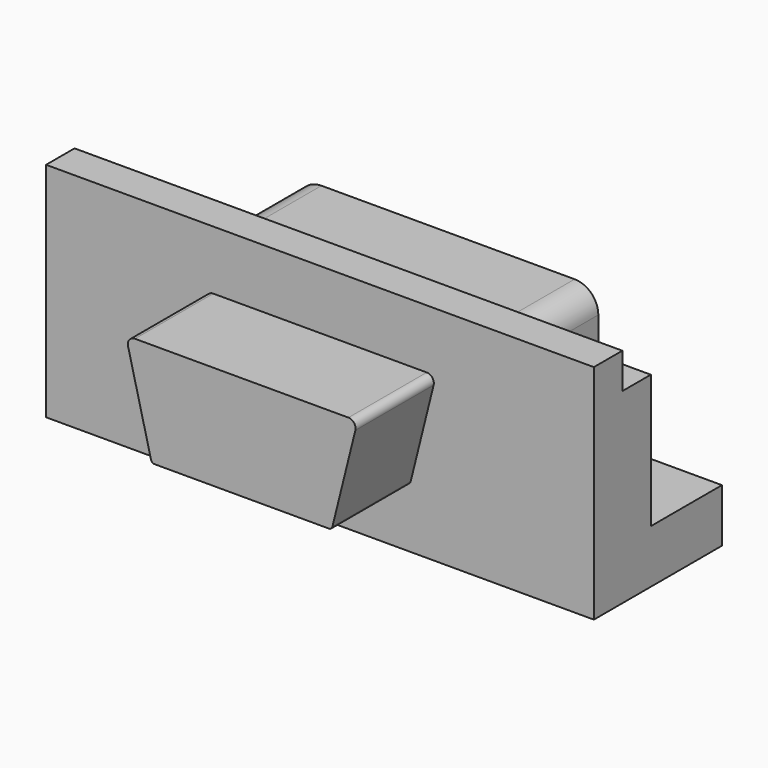
from build123d import *

# Parameters (mm, degrees)
SKETCH008_W          = 30.8
SKETCH008_H          = 12.5
PAD006_DEPTH         = 2
SKETCH009_W          = 30.8
SKETCH009_H          = 10.5
PAD007_DEPTH         = 2
PAD067_DEPTH         = 5
PAD115_DEPTH         = 5.5
BODY_PLACEMENT_ANGLE = 180


with BuildPart() as part:
    # Sketch008 → Pad006 (new body)
    with BuildSketch(Plane(origin=(0, 3, 0), x_dir=(-1, 0, 0), z_dir=(0, 1, 0))):
        with Locations((0, 6.25)):
            Rectangle(SKETCH008_W, SKETCH008_H)
    extrude(amount=-PAD006_DEPTH)

    # Sketch009 → Pad007 (join)
    with BuildSketch(Plane.XZ.offset(-1)):
        with Locations((0, 5.25)):
            Rectangle(SKETCH009_W, SKETCH009_H)
    extrude(amount=PAD007_DEPTH)

    # Sketch010 → Pad067 (join)
    with BuildSketch(Plane.XZ.offset(1)):
        with BuildLine():
            Line((15.4, 0), (15.4, 3))
            Line((15.4, 3), (8.45, 3))
            Line((8.45, 3), (8.45, 9.167398))
            ThreePointArc((8.45, 9.167398), (8.05969, 10.10969), (7.117398, 10.5))
            Line((7.117398, 10.5), (-7.117398, 10.5))
            ThreePointArc((-7.117398, 10.5), (-8.05969, 10.10969), (-8.45, 9.167398))
            Line((-8.45, 9.167398), (-8.45, 3))
            Line((-8.45, 3), (-15.4, 3))
            Line((-15.4, 3), (-15.4, 0))
            Line((-15.4, 0), (15.4, 0))
        make_face()
    extrude(amount=PAD067_DEPTH)

    # Sketch094 → Pad115 (join)
    with BuildSketch(Plane(origin=(0, 3, 0), x_dir=(-1, 0, 0), z_dir=(0, 1, 0))):
        with BuildLine():
            Line((-6, 9.18), (6, 9.18))
            ThreePointArc((6.390856, 8.68), (6.31732, 9.025285), (6, 9.18))
            Line((6.390856, 8.68), (5.098578, 3.485231))
            ThreePointArc((4.9, 3.33), (5.026026, 3.373413), (5.098578, 3.485231))
            Line((4.9, 3.33), (-4.9, 3.33))
            ThreePointArc((-5.098578, 3.485231), (-5.026026, 3.373413), (-4.9, 3.33))
            Line((-5.098578, 3.485231), (-6.390856, 8.68))
            ThreePointArc((-6, 9.18), (-6.31732, 9.025285), (-6.390856, 8.68))
        make_face()
    extrude(amount=PAD115_DEPTH)


with BuildPart() as part_1:
    # Body placement: moved
    add(part.part.moved(Location((5.3, 0, 0))).rotate(Axis((5.3, 0, 0), (0, 0, 1)), BODY_PLACEMENT_ANGLE))


solid = part_1.part
